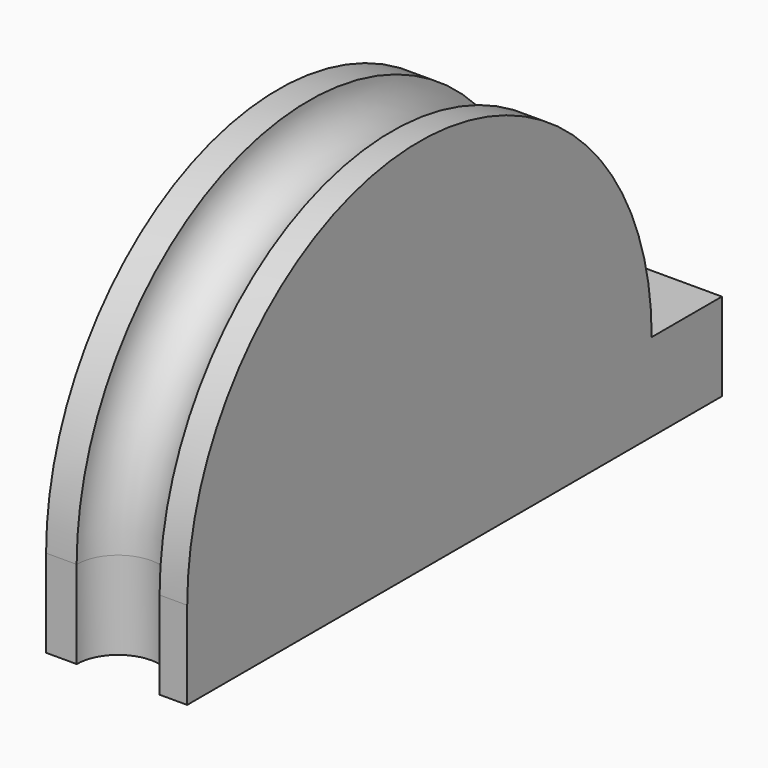
from build123d import *

# Parameters (mm, degrees)
F1_ANGLE = 180
F2_DEPTH = 6.35


with BuildPart() as f1:
    # F0 (on Top) → F1 (revolve)
    with BuildSketch(Plane.XY):
        with BuildLine():
            Line((-6.4321910031, 31.2837616578), (-8.4300018176, 31.2837616578))
            ThreePointArc((-8.4300018176, 31.2837616578), (-11.4300018176, 28.2837616578), (-14.4300018176, 31.2837616578))
            Line((-14.4300018176, 31.2837616578), (-16.641324386, 31.2837616578))
            Line((-16.641324386, 31.2837616578), (-16.641324386, 10.2837616578))
            Line((-16.641324386, 10.2837616578), (-6.4321910031, 10.2837616578))
            Line((-6.4321910031, 10.2837616578), (-6.4321910031, 31.2837616578))
        make_face()
    revolve(axis=Axis((-11.5367576946, 10.2837616578, 0), (1, 0, 0)), revolution_arc=F1_ANGLE)

    # F0 (on Top) → F2 (join)
    with BuildSketch(Plane.XY):
        with BuildLine():
            Line((-6.4321910031, 31.2837616578), (-8.4300018176, 31.2837616578))
            ThreePointArc((-8.4300018176, 31.2837616578), (-11.4300018176, 28.2837616578), (-14.4300018176, 31.2837616578))
            Line((-14.4300018176, 31.2837616578), (-16.641324386, 31.2837616578))
            Line((-16.641324386, 31.2837616578), (-16.641324386, 10.2837616578))
            Line((-16.641324386, 10.2837616578), (-6.4321910031, 10.2837616578))
            Line((-6.4321910031, 10.2837616578), (-6.4321910031, 31.2837616578))
        make_face()
        with BuildLine():
            Line((-6.4321910031, -10.7162383422), (-6.4321910031, 10.2837616578))
            Line((-6.4321910031, 10.2837616578), (-16.641324386, 10.2837616578))
            Line((-16.641324386, 10.2837616578), (-16.641324386, -10.7162383422))
            Line((-16.641324386, -10.7162383422), (-14.4300018176, -10.7162383422))
            ThreePointArc((-14.4300018176, -10.7162383422), (-11.4300018176, -7.7162383422), (-8.4300018176, -10.7162383422))
            Line((-8.4300018176, -10.7162383422), (-6.4321910031, -10.7162383422))
        make_face()
        with BuildLine():
            ThreePointArc((-14.4300018176, 31.2837616578), (-11.4300018176, 34.2837616578), (-8.4300018176, 31.2837616578))
            Line((-8.4300018176, 31.2837616578), (-6.4321910031, 31.2837616578))
            Line((-6.4321910031, 31.2837616578), (-6.4321910031, 37.6337616578))
            Line((-6.4321910031, 37.6337616578), (-16.641324386, 37.6337616578))
            Line((-16.641324386, 37.6337616578), (-16.641324386, 31.2837616578))
            Line((-16.641324386, 31.2837616578), (-14.4300018176, 31.2837616578))
        make_face()
    extrude(amount=-F2_DEPTH)


solid = f1.part
